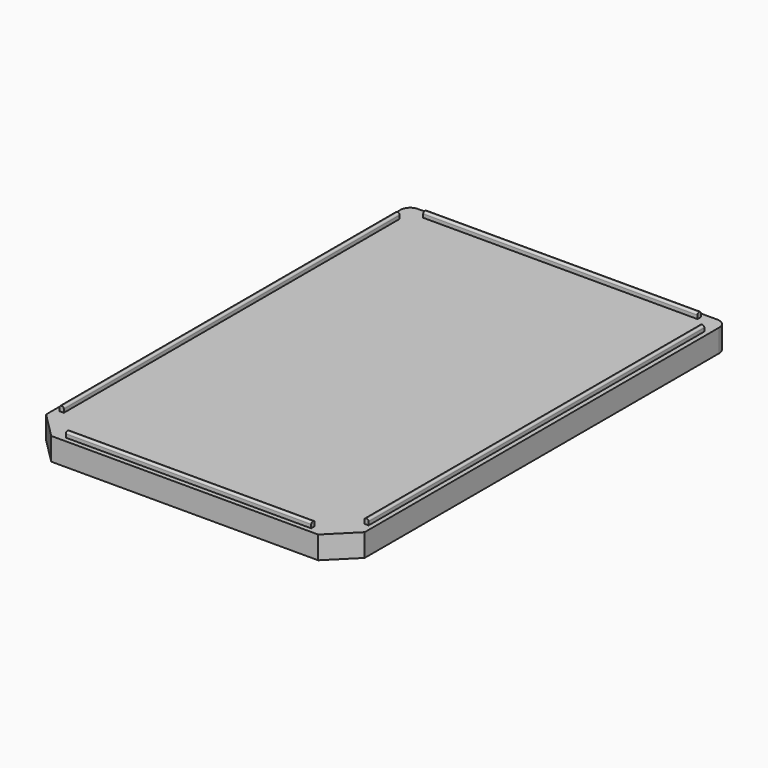
from build123d import *

# Parameters (mm, degrees)
F1_DEPTH  = 6.0198
F2_R      = 2.54
F4_DEPTH  = 5.08
F5_W      = 3.8608
F5_H      = 0.889
F5_W_2    = 0.889
F5_H_2    = 3.8608
F6_DEPTH  = 0.3556
F7_W      = 0.889
F7_H      = 0.3556
F7_W_2    = 0.3556
F7_H_2    = 0.889
F8_DEPTH  = 5.08
F9_W      = 1.143
F9_H      = 111.379
F9_W_2    = 65.1002
F9_H_2    = 1.143
F9_W_3    = 72.772369
F10_DEPTH = 1.4224
F11_R     = 0.508


with BuildPart() as f1:
    # F0 (on Top) → F1 (new body)
    with BuildSketch(Plane.XY):
        Polygon((42.2783, 63.5), (-42.2783, 63.5), (-42.2783, -56.642), (-35.4203, -63.5), (35.4203, -63.5), (42.2783, -56.642), align=None)
    extrude(amount=F1_DEPTH)

    # F2
    f2_edges = [f1.edges().sort_by_distance(p)[0] for p in [
        (-42.2783, 63.5, 3.0099),
        (42.2783, 63.5, 3.0099),
    ]]
    fillet(f2_edges, radius=F2_R)

    # F3 (on face) → F4 (cut)
    with BuildSketch(Plane(origin=(0, 0, 0), x_dir=(1, 0, 0), z_dir=(0, 0, -1))):
        Polygon((-39.7383, 55.589898), (-39.7383, -60.96), (39.7383, -60.96), (39.7383, 55.589898), (34.368198, 60.96), (-34.368198, 60.96), align=None)
    extrude(amount=-F4_DEPTH, mode=Mode.SUBTRACT)

    # F5 (on face) → F6 (join)
    with BuildSketch(Plane(origin=(0, 0, 5.08), x_dir=(1, 0, 0), z_dir=(0, 0, -1))):
        with Locations((37.8079, 46.7995)):
            Rectangle(F5_W, F5_H)
        with Locations((37.8079, -0.734602)):
            Rectangle(F5_W, F5_H)
        with Locations((37.8079, -46.7995)):
            Rectangle(F5_W, F5_H)
        with Locations((25.5778, -59.0296)):
            Rectangle(F5_W_2, F5_H_2)
        with Locations((-25.5778, -59.0296)):
            Rectangle(F5_W_2, F5_H_2)
        with Locations((-37.8079, -46.7995)):
            Rectangle(F5_W, F5_H)
        with Locations((-37.8079, -0.734602)):
            Rectangle(F5_W, F5_H)
        with Locations((-37.8079, 46.7995)):
            Rectangle(F5_W, F5_H)
        with Locations((-25.5778, 59.0296)):
            Rectangle(F5_W_2, F5_H_2)
        with Locations((25.5778, 59.0296)):
            Rectangle(F5_W_2, F5_H_2)
    extrude(amount=F6_DEPTH)

    # F7 (on face) → F8 (join)
    with BuildSketch(Plane(origin=(0, 0, 5.08), x_dir=(1, 0, 0), z_dir=(0, 0, -1))):
        with Locations((-25.5778, 60.7822)):
            Rectangle(F7_W, F7_H)
        with Locations((25.5778, 60.7822)):
            Rectangle(F7_W, F7_H)
        with Locations((39.5605, 46.7995)):
            Rectangle(F7_W_2, F7_H_2)
        with Locations((39.5605, -0.734602)):
            Rectangle(F7_W_2, F7_H_2)
        with Locations((-39.5605, 46.7995)):
            Rectangle(F7_W_2, F7_H_2)
        with Locations((-39.5605, -0.734602)):
            Rectangle(F7_W_2, F7_H_2)
        with Locations((-39.5605, -46.7995)):
            Rectangle(F7_W_2, F7_H_2)
        with Locations((-25.5778, -60.7822)):
            Rectangle(F7_W, F7_H)
        with Locations((25.5778, -60.7822)):
            Rectangle(F7_W, F7_H)
        with Locations((39.5605, -46.7995)):
            Rectangle(F7_W_2, F7_H_2)
    extrude(amount=F8_DEPTH)

    # F9 (on face) → F10 (join)
    with BuildSketch(Plane.XY.offset(6.0198)):
        with Locations((-40.4368, 1.9177)):
            Rectangle(F9_W, F9_H)
        with Locations((0, -61.6585)):
            Rectangle(F9_W_2, F9_H_2)
        with Locations((40.4368, 1.9177)):
            Rectangle(F9_W, F9_H)
        with Locations((0.000684, 61.6585)):
            Rectangle(F9_W_3, F9_H_2)
    extrude(amount=F10_DEPTH)

    # F11
    f11_edges = [f1.edges().sort_by_distance(p)[0] for p in [
        (-41.0083, 1.9177, 7.4422),
        (-39.8653, 1.9177, 7.4422),
        (0.000684, 61.087, 7.4422),
        (0.000684, 62.23, 7.4422),
        (39.8653, 1.9177, 7.4422),
        (41.0083, 1.9177, 7.4422),
        (0, -61.087, 7.4422),
        (0, -62.23, 7.4422),
    ]]
    fillet(f11_edges, radius=F11_R)


solid = f1.part
